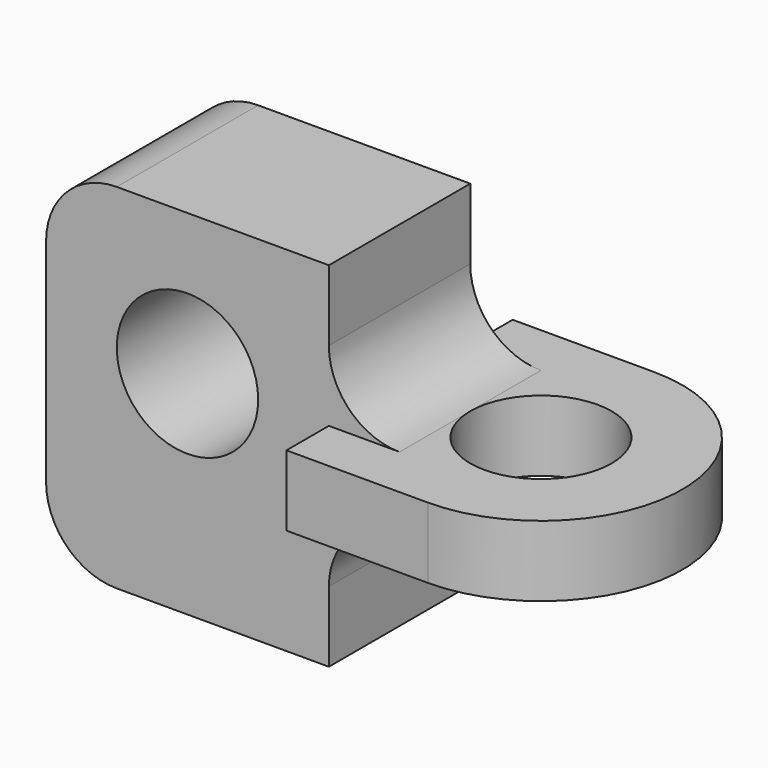
from build123d import *

# Parameters (mm, degrees)
F0_R     = 10
F1_DEPTH = 5
F2_R     = 10
F3_DEPTH = 12.5


with BuildPart() as f1:
    # F0 (on Top) → F1 (new body, symmetric)
    with BuildSketch(Plane.XY):
        with BuildLine():
            Line((-20, -20), (0, -20))
            ThreePointArc((0, -20), (20, 0), (0, 20))
            Line((0, 20), (-20, 20))
            Line((-20, 20), (-20, -20))
        make_face()
        Circle(F0_R, mode=Mode.SUBTRACT)
    extrude(amount=F1_DEPTH, both=True)

    # F2 (on Front) → F3 (join, symmetric)
    with BuildSketch(Plane.XZ):
        with BuildLine():
            ThreePointArc((-10, 5), (-17.071068, 7.928932), (-20, 15))
            Line((-20, 15), (-20, 25))
            Line((-20, 25), (-50, 25))
            ThreePointArc((-50, 25), (-57.071068, 22.071068), (-60, 15))
            Line((-60, 15), (-60, -15))
            ThreePointArc((-60, -15), (-57.071068, -22.071068), (-50, -25))
            Line((-50, -25), (-20, -25))
            Line((-20, -25), (-20, -15))
            ThreePointArc((-20, -15), (-17.071068, -7.928932), (-10, -5))
            Line((-10, -5), (-20, -5))
            Line((-20, -5), (-20, 5))
            Line((-20, 5), (-10, 5))
        make_face()
        with Locations((-40, 5)):
            Circle(F2_R, mode=Mode.SUBTRACT)
    extrude(amount=F3_DEPTH, both=True)


solid = f1.part
